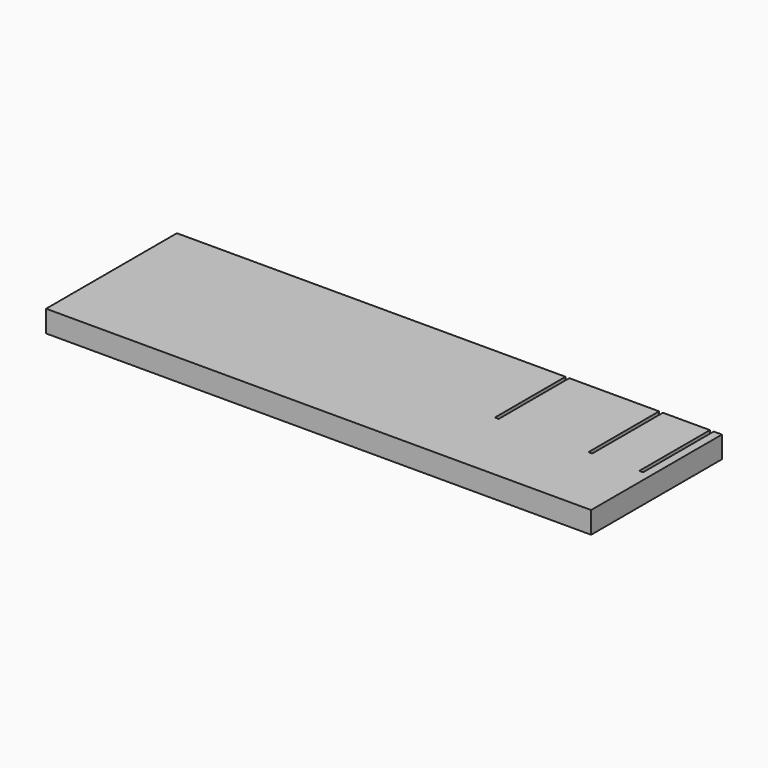
from build123d import *

# Parameters (mm, degrees)
F0_W     = 100
F0_H     = 30
F2_DEPTH = 4
F1_W     = 0.7
F1_H     = 28.988547
F1_H_2   = 39.616307
F1_H_3   = 26.504163
F3_DEPTH = 4


with BuildPart() as f2:
    # F0 (on Top) → F2 (new body)
    with BuildSketch(Plane.XY):
        Rectangle(F0_W, F0_H)
    extrude(amount=F2_DEPTH)

    # F1 (on Top) → F3 (cut)
    with BuildSketch(Plane.XY):
        with Locations((21.65, 13.294273)):
            Rectangle(F1_W, F1_H)
        with Locations((48.15, 18.608153)):
            Rectangle(F1_W, F1_H_2)
        with Locations((38.822, 12.052081)):
            Rectangle(F1_W, F1_H_3)
    extrude(amount=F3_DEPTH, mode=Mode.SUBTRACT)


solid = f2.part
